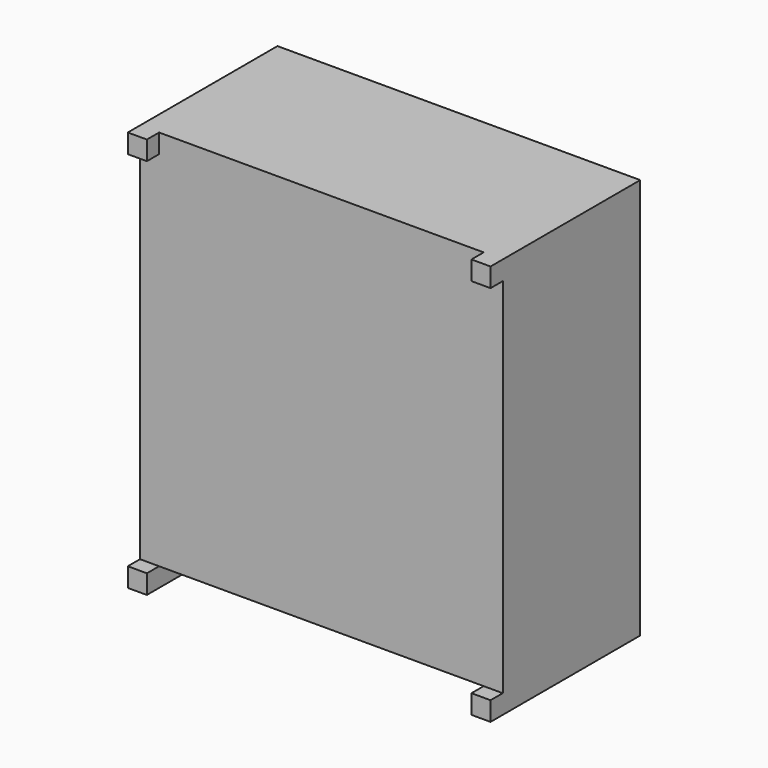
from build123d import *

# Parameters (mm, degrees)
SKETCH062_W  = 9.5
SKETCH062_H  = 4.5
PAD030_DEPTH = 10
SKETCH064_W  = 0.5
SKETCH064_H  = 0.5
PAD031_DEPTH = 0.4
SKETCH063_W  = 0.5
SKETCH063_H  = 4.9
PAD032_DEPTH = 0.5


with BuildPart() as part:
    # Sketch062 → Pad030 (new body)
    with BuildSketch(Plane.XY):
        Rectangle(SKETCH062_W, SKETCH062_H)
    extrude(amount=PAD030_DEPTH)

    # Sketch064 (on Face3 of Pad030) → Pad031 (join)
    with BuildSketch(Plane.XZ.offset(2.25)):
        with Locations((-4.5, 9.75)):
            Rectangle(SKETCH064_W, SKETCH064_H)
        with Locations((4.5, 9.75)):
            Rectangle(SKETCH064_W, SKETCH064_H)
    extrude(amount=PAD031_DEPTH)

    # Sketch063 (on Face4 of Pad031) → Pad032 (join)
    with BuildSketch(Plane(origin=(0, 0, 0), x_dir=(1, 0, 0), z_dir=(0, 0, -1))):
        with Locations((-4.5, 0.2)):
            Rectangle(SKETCH063_W, SKETCH063_H)
        with Locations((4.5, 0.2)):
            Rectangle(SKETCH063_W, SKETCH063_H)
    extrude(amount=PAD032_DEPTH)


solid = part.part
